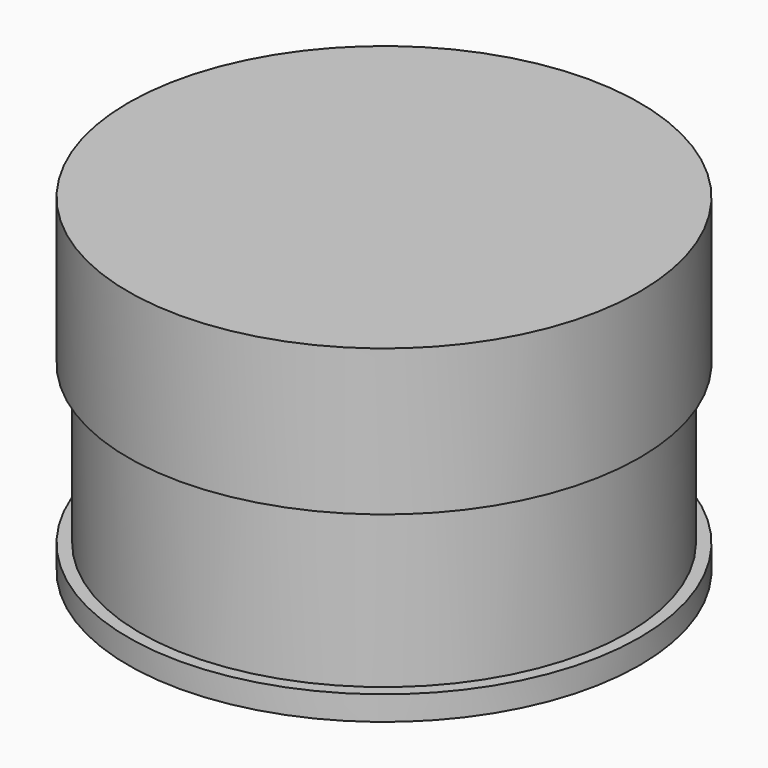
from build123d import *

# Parameters (mm, degrees)
F0_R       = 25.4
F1_DEPTH   = 6.35
F0_R_2     = 31.75
F2_DEPTH   = 23.8125
F0_R_3     = 33.3375
F3_DEPTH   = 3.175
F4_R       = 26.9875
F4_R_2     = 25.4
F5_DEPTH   = 1.5875
F7_R       = 33.3375
F7_R_2     = 26.9875
F8_DEPTH   = 9.525
F9_R       = 33.3375
F10_DEPTH  = 9.525
F11_R      = 1.5875
F12_DEPTH  = 3.175
F6_R       = 1.5875
F13_DEPTH  = 3.175
F10_FACE_R = 26.9875
F14_DEPTH  = 3.175


with BuildPart() as f1:
    # F0 (on Top) → F1 (new body)
    with BuildSketch(Plane.XY):
        Circle(F0_R)
    extrude(amount=F1_DEPTH)

    # F0 (on Top) → F2 (join)
    with BuildSketch(Plane.XY):
        Circle(F0_R_2)
        Circle(F0_R, mode=Mode.SUBTRACT)
    extrude(amount=F2_DEPTH)

    # F0 (on Top) → F3 (join)
    with BuildSketch(Plane.XY):
        Circle(F0_R_3)
        Circle(F0_R_2, mode=Mode.SUBTRACT)
    extrude(amount=F3_DEPTH)

    # F4 (on face) → F5 (join)
    with BuildSketch(Plane.XY.offset(23.8125)):
        Circle(F4_R)
        Circle(F4_R_2, mode=Mode.SUBTRACT)
    extrude(amount=F5_DEPTH)

    # F6 (on face) → F13 (cut)
    with BuildSketch(Plane.XY.offset(23.8125)):
        with Locations((29.36875, 0)):
            Circle(F6_R)
        with Locations((-29.36875, 0)):
            Circle(F6_R)
        with Locations((0, 29.36875)):
            Circle(F6_R)
        with Locations((0, -29.36875)):
            Circle(F6_R)
    extrude(amount=-F13_DEPTH, mode=Mode.SUBTRACT)


with BuildPart() as f8:
    # F7 (on face) → F8 (new body)
    with BuildSketch(Plane.XY.offset(23.8125)):
        Circle(F7_R)
        Circle(F7_R_2, mode=Mode.SUBTRACT)
    extrude(amount=F8_DEPTH)

    # F9 (on face) → F10 (join)
    with BuildSketch(Plane.XY.offset(33.3375)):
        Circle(F9_R)
    extrude(amount=F10_DEPTH)

    # F11 (on face) → F12 (cut)
    with BuildSketch(Plane(origin=(0, 0, 23.8125), x_dir=(1, 0, 0), z_dir=(0, 0, -1))):
        with Locations((29.36875, 0)):
            Circle(F11_R)
        with Locations((0, -29.36875)):
            Circle(F11_R)
        with Locations((-29.36875, 0)):
            Circle(F11_R)
        with Locations((0, 29.36875)):
            Circle(F11_R)
    extrude(amount=-F12_DEPTH, mode=Mode.SUBTRACT)

    # F10_face (on face) → F14 (cut)
    with BuildSketch(Plane(origin=(0, 0, 33.3375), x_dir=(1, 0, 0), z_dir=(0, 0, -1))):
        Circle(F10_FACE_R)
    extrude(amount=-F14_DEPTH, mode=Mode.SUBTRACT)


solid = Compound([f1.part, f8.part])
